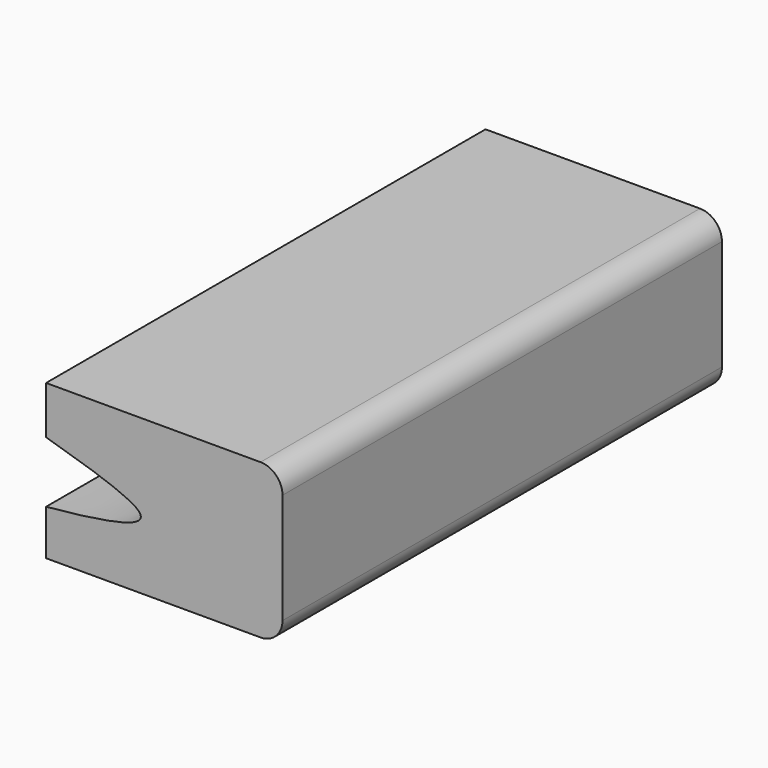
from build123d import *

# Parameters (mm, degrees)
F1_DEPTH = 63.5
F2_R     = 5.08


with BuildPart() as f1:
    # F0 (on Front) → F1 (new body, symmetric)
    with BuildSketch(Plane.XZ):
        with BuildLine():
            Line((83.5114195943, 68.5173198581), (83.5114195943, 57.4587951158))
            add(Edge.make_bspline(
                [(83.5114195943, 43.318330771), (97.6864954558, 44.6749269215), (115.7927588569, 47.6601282656), (92.4910106791, 54.8300490471), (83.5114195943, 57.4587951158)],
                knots=[0.069978158, 0.069978158, 0.069978158, 0.069978158, 0.2637100005, 0.4044273301, 0.4044273301, 0.4044273301, 0.4044273301], degree=3))
            Line((83.5114195943, 43.318330771), (83.5114195943, 32.8351669014))
            Line((83.5114195943, 32.8351669014), (138.1734460592, 32.8351669014))
            Line((138.1734460592, 32.8351669014), (138.1734460592, 68.5173198581))
            Line((138.1734460592, 68.5173198581), (83.5114195943, 68.5173198581))
        make_face()
    extrude(amount=F1_DEPTH, both=True)

    # F2
    f2_edges = [f1.edges().sort_by_distance(p)[0] for p in [
        (138.173446, 0, 32.835167),
        (138.173446, 0, 68.51732),
    ]]
    fillet(f2_edges, radius=F2_R)


solid = f1.part
